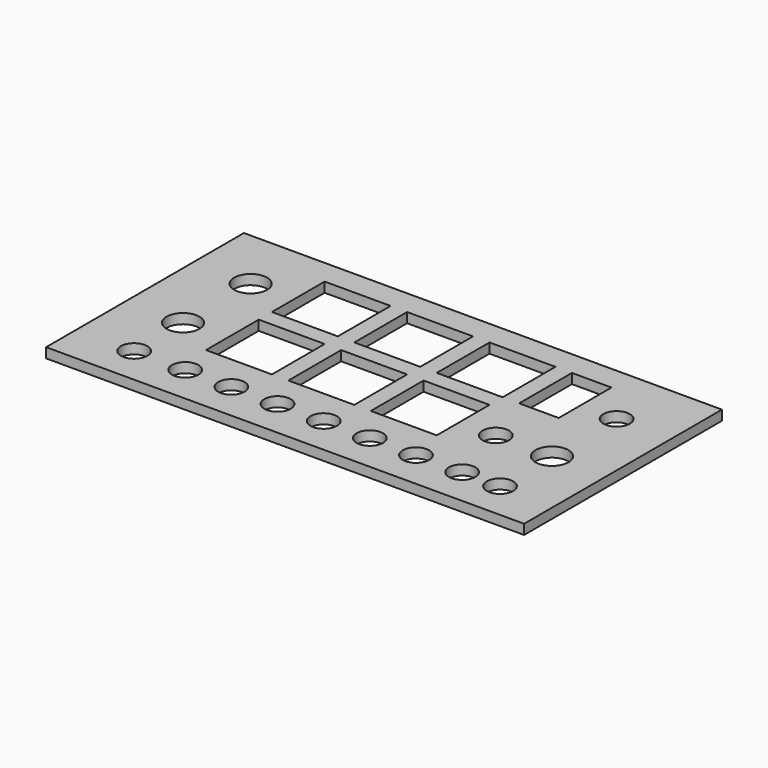
from build123d import *

# Parameters (mm, degrees)
F0_W     = 145
F0_H     = 75
F0_R     = 4
F0_R_2   = 5
F0_W_2   = 20
F0_H_2   = 20
F0_W_3   = 12
F1_DEPTH = 3
F2_DEPTH = 1


with BuildPart() as f1:
    # F0 (on Top) → F1 (new body)
    with BuildSketch(Plane.XY):
        with Locations((72.5, -37.5)):
            Rectangle(F0_W, F0_H)
        with Locations((17.5, -63.5)):
            Circle(F0_R, mode=Mode.SUBTRACT)
        with Locations((33, -63.5)):
            Circle(F0_R, mode=Mode.SUBTRACT)
        with Locations((47, -63.5)):
            Circle(F0_R, mode=Mode.SUBTRACT)
        with Locations((61, -63.5)):
            Circle(F0_R, mode=Mode.SUBTRACT)
        with Locations((17.5, -44.955306)):
            Circle(F0_R_2, mode=Mode.SUBTRACT)
        with Locations((40.5, -42.5)):
            Rectangle(F0_W_2, F0_H_2, mode=Mode.SUBTRACT)
        with Locations((65.5, -42.5)):
            Rectangle(F0_W_2, F0_H_2, mode=Mode.SUBTRACT)
        with Locations((75, -63.5)):
            Circle(F0_R, mode=Mode.SUBTRACT)
        with Locations((89, -63.5)):
            Circle(F0_R, mode=Mode.SUBTRACT)
        with Locations((103, -63.5)):
            Circle(F0_R, mode=Mode.SUBTRACT)
        with Locations((117, -63.5)):
            Circle(F0_R, mode=Mode.SUBTRACT)
        with Locations((128.5, -63.5)):
            Circle(F0_R, mode=Mode.SUBTRACT)
        with Locations((90.5, -42.5)):
            Rectangle(F0_W_2, F0_H_2, mode=Mode.SUBTRACT)
        with Locations((111.459419, -43.807857)):
            Circle(F0_R, mode=Mode.SUBTRACT)
        with Locations((128.5, -43.807857)):
            Circle(F0_R_2, mode=Mode.SUBTRACT)
        with Locations((17.5, -19.316503)):
            Circle(F0_R_2, mode=Mode.SUBTRACT)
        with Locations((40.5, -17.5)):
            Rectangle(F0_W_2, F0_H_2, mode=Mode.SUBTRACT)
        with Locations((65.5, -17.5)):
            Rectangle(F0_W_2, F0_H_2, mode=Mode.SUBTRACT)
        with Locations((128.5, -19.316503)):
            Circle(F0_R, mode=Mode.SUBTRACT)
        with Locations((90.5, -17.5)):
            Rectangle(F0_W_2, F0_H_2, mode=Mode.SUBTRACT)
        with Locations((111.5, -17.5)):
            Rectangle(F0_W_3, F0_H_2, mode=Mode.SUBTRACT)
    extrude(amount=F1_DEPTH)


with BuildPart() as f2:
    # F0 (on Top) → F2 (new body)
    with BuildSketch(Plane.XY):
        with Locations((72.5, -37.5)):
            Rectangle(F0_W, F0_H)
        with Locations((17.5, -63.5)):
            Circle(F0_R, mode=Mode.SUBTRACT)
        with Locations((33, -63.5)):
            Circle(F0_R, mode=Mode.SUBTRACT)
        with Locations((47, -63.5)):
            Circle(F0_R, mode=Mode.SUBTRACT)
        with Locations((61, -63.5)):
            Circle(F0_R, mode=Mode.SUBTRACT)
        with Locations((17.5, -44.955306)):
            Circle(F0_R_2, mode=Mode.SUBTRACT)
        with Locations((40.5, -42.5)):
            Rectangle(F0_W_2, F0_H_2, mode=Mode.SUBTRACT)
        with Locations((65.5, -42.5)):
            Rectangle(F0_W_2, F0_H_2, mode=Mode.SUBTRACT)
        with Locations((75, -63.5)):
            Circle(F0_R, mode=Mode.SUBTRACT)
        with Locations((89, -63.5)):
            Circle(F0_R, mode=Mode.SUBTRACT)
        with Locations((103, -63.5)):
            Circle(F0_R, mode=Mode.SUBTRACT)
        with Locations((117, -63.5)):
            Circle(F0_R, mode=Mode.SUBTRACT)
        with Locations((128.5, -63.5)):
            Circle(F0_R, mode=Mode.SUBTRACT)
        with Locations((90.5, -42.5)):
            Rectangle(F0_W_2, F0_H_2, mode=Mode.SUBTRACT)
        with Locations((111.459419, -43.807857)):
            Circle(F0_R, mode=Mode.SUBTRACT)
        with Locations((128.5, -43.807857)):
            Circle(F0_R_2, mode=Mode.SUBTRACT)
        with Locations((17.5, -19.316503)):
            Circle(F0_R_2, mode=Mode.SUBTRACT)
        with Locations((40.5, -17.5)):
            Rectangle(F0_W_2, F0_H_2, mode=Mode.SUBTRACT)
        with Locations((65.5, -17.5)):
            Rectangle(F0_W_2, F0_H_2, mode=Mode.SUBTRACT)
        with Locations((128.5, -19.316503)):
            Circle(F0_R, mode=Mode.SUBTRACT)
        with Locations((90.5, -17.5)):
            Rectangle(F0_W_2, F0_H_2, mode=Mode.SUBTRACT)
        with Locations((111.5, -17.5)):
            Rectangle(F0_W_3, F0_H_2, mode=Mode.SUBTRACT)
    extrude(amount=-F2_DEPTH)


solid = f1.part
